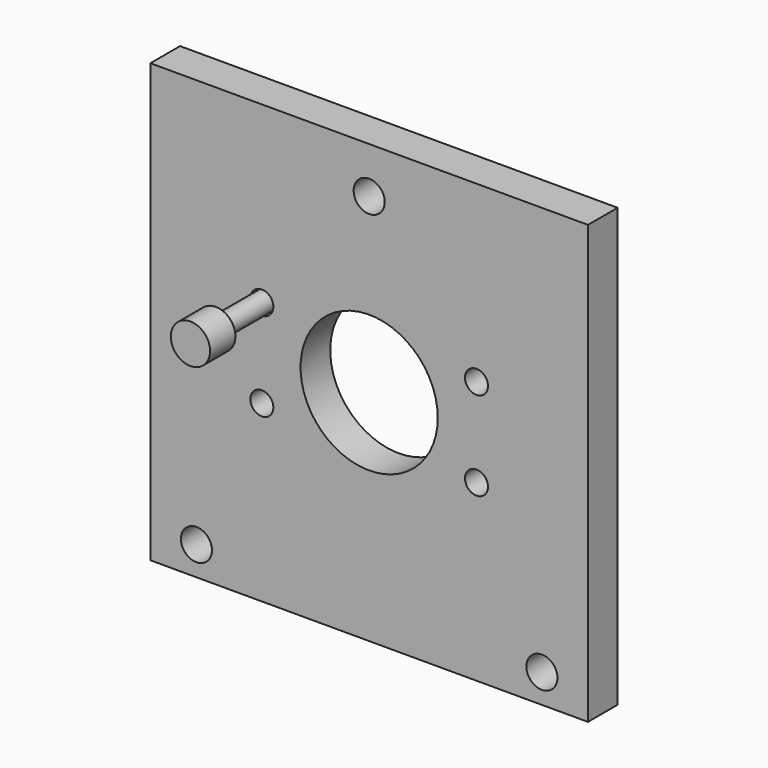
from build123d import *

# Parameters (mm, degrees)
F0_W     = 96.52
F0_H     = 96.52
F0_R     = 2.54
F0_R_2   = 15.129575
F1_DEPTH = 8.1788
F2_R     = 3.429
F3_DEPTH = 8.1798
F4_R     = 2.188597
F5_DEPTH = 12.7
F6_R     = 4.327678
F7_DEPTH = 6.985


with BuildPart() as f1:
    # F0 (on Front) → F1 (new body)
    with BuildSketch(Plane.XZ):
        Rectangle(F0_W, F0_H)
        with Locations((-23.6728, -9.779)):
            Circle(F0_R, mode=Mode.SUBTRACT)
        with Locations((23.6728, -9.779)):
            Circle(F0_R, mode=Mode.SUBTRACT)
        with Locations((-23.6728, 9.779)):
            Circle(F0_R, mode=Mode.SUBTRACT)
        Circle(F0_R_2, mode=Mode.SUBTRACT)
        with Locations((23.6728, 9.779)):
            Circle(F0_R, mode=Mode.SUBTRACT)
    extrude(amount=F1_DEPTH)

    # F2 (on face) → F3 (cut, through all)
    with BuildSketch(Plane.XZ.offset(8.1788)):
        with Locations((0, 38.1)):
            Circle(F2_R)
        with Locations((38.1, -41.91)):
            Circle(F2_R)
        with Locations((-38.1, -41.91)):
            Circle(F2_R)
    extrude(amount=-F3_DEPTH, mode=Mode.SUBTRACT)


with BuildPart() as f5:
    # F4 (on face) → F5 (new body, symmetric)
    with BuildSketch(Plane.XZ.offset(8.1788)):
        with Locations((-23.6728, 9.779)):
            Circle(F4_R)
    extrude(amount=F5_DEPTH, both=True)

    # F6 (on face) → F7 (join)
    with BuildSketch(Plane.XZ.offset(20.8788)):
        with Locations((-23.6728, 9.779)):
            Circle(F6_R)
    extrude(amount=F7_DEPTH)


solid = Compound([f1.part, f5.part])
